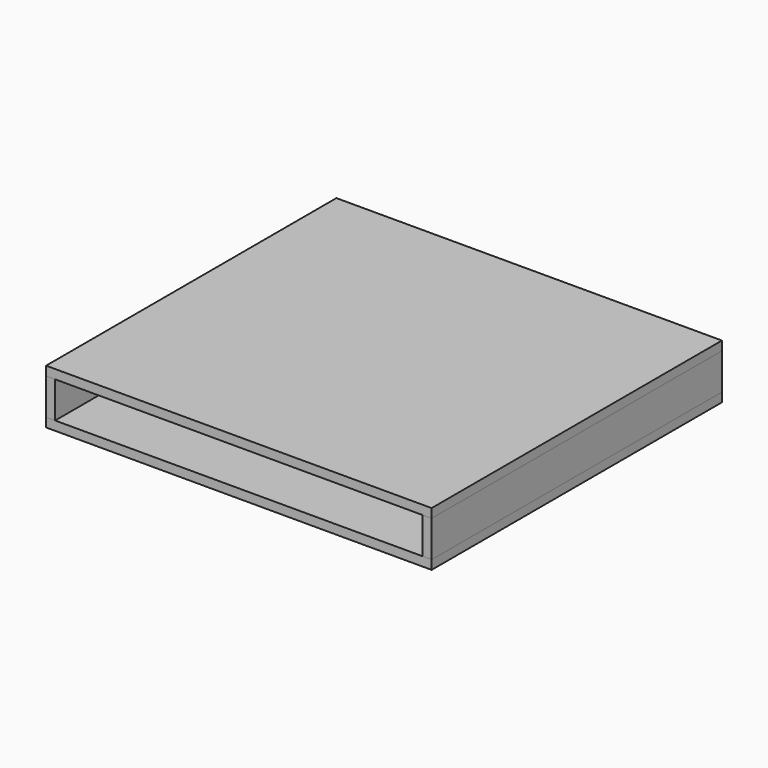
from build123d import *

# Parameters (mm, degrees)
F1_DEPTH = 800
F0_W     = 20
F0_H     = 80
F2_DEPTH = 800


with BuildPart() as f1:
    # F0 (on Front) → F1 (new body)
    with BuildSketch(Plane.XZ):
        Polygon((425, 385), (-425, 385), (-425, 365), (-405, 365), (405, 365), (425, 365), align=None)
        Polygon((-405, 285), (-425, 285), (-425, 265), (425, 265), (425, 285), (405, 285), align=None)
    extrude(amount=F1_DEPTH)


with BuildPart() as f2:
    # F0 (on Front) → F2 (new body)
    with BuildSketch(Plane.XZ):
        with Locations((415, 325)):
            Rectangle(F0_W, F0_H)
        with Locations((-415, 325)):
            Rectangle(F0_W, F0_H)
    extrude(amount=F2_DEPTH)


solid = Compound([f1.part, f2.part])
